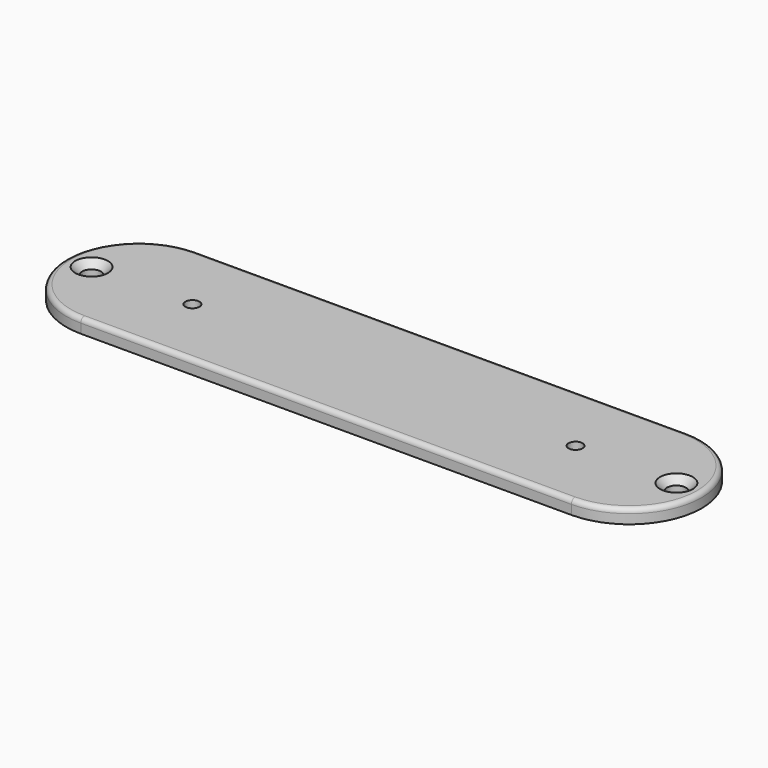
from build123d import *

# Parameters (mm, degrees)
F0_R     = 2
F0_R_2   = 1.5
F1_DEPTH = 3
F2_SIZE  = 1.5
F3_R     = 1


with BuildPart() as f1:
    # F0 (on Top) → F1 (new body)
    with BuildSketch(Plane.XY):
        with BuildLine():
            Line((-105, 0), (0, 0))
            ThreePointArc((0, 0), (15.5, 15.5), (0, 31))
            Line((0, 31), (-105, 31))
            ThreePointArc((-105, 31), (-120.5, 15.5), (-105, 0))
        make_face()
        with Locations((-115.09, 15.5)):
            Circle(F0_R, mode=Mode.SUBTRACT)
        with Locations((-93.5, 15.5)):
            Circle(F0_R_2, mode=Mode.SUBTRACT)
        with Locations((-11.5, 15.5)):
            Circle(F0_R_2, mode=Mode.SUBTRACT)
        with Locations((10.09, 15.5)):
            Circle(F0_R, mode=Mode.SUBTRACT)
    extrude(amount=F1_DEPTH)

    # F2
    f2_edges = [f1.edges().sort_by_distance(p)[0] for p in [
        (-117.09, 15.5, 3),
        (8.09, 15.5, 3),
    ]]
    chamfer(f2_edges, length=F2_SIZE)

    # F3
    f3_edges = [f1.edges().sort_by_distance(p)[0] for p in [
        (-120.5, 15.5, 3),
        (-52.5, 0, 3),
        (-52.5, 31, 3),
        (15.5, 15.5, 3),
    ]]
    fillet(f3_edges, radius=F3_R)


solid = f1.part
